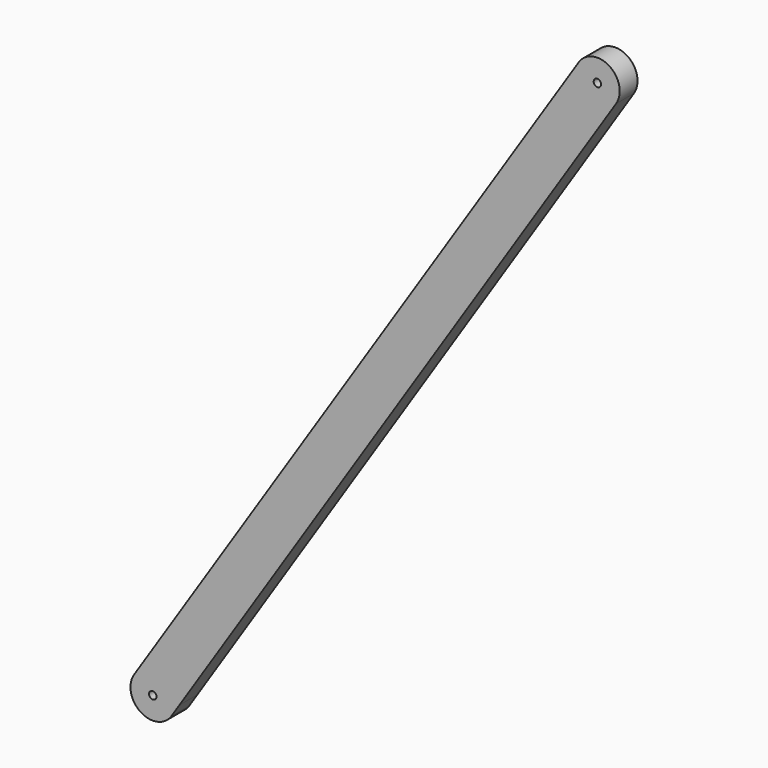
from build123d import *

# Parameters (mm, degrees)
F0_R     = 3.175
F1_DEPTH = 19.05


with BuildPart() as f1:
    # F0 (on Front) → F1 (new body)
    with BuildSketch(Plane.XZ):
        with BuildLine():
            Line((-203.9060870256, -443.1007931722), (-197.1510368857, -432.7144915486))
            Line((-197.1510368857, -432.7144915486), (176.0463190104, 141.0992068278))
            ThreePointArc((176.0463190104, 141.0992068278), (170.463048361, 167.4550807244), (144.1071744644, 161.871810075))
            Line((144.1071744644, 161.871810075), (-235.8452315716, -422.328189925))
            ThreePointArc((-235.8452315716, -422.328189925), (-230.2619609222, -448.6840638216), (-203.9060870256, -443.1007931722))
        make_face()
        with Locations((-219.8756592986, -432.7144915486)):
            Circle(F0_R, mode=Mode.SUBTRACT)
        with Locations((160.0767467374, 151.4855084514)):
            Circle(F0_R, mode=Mode.SUBTRACT)
    extrude(amount=F1_DEPTH)


solid = f1.part
